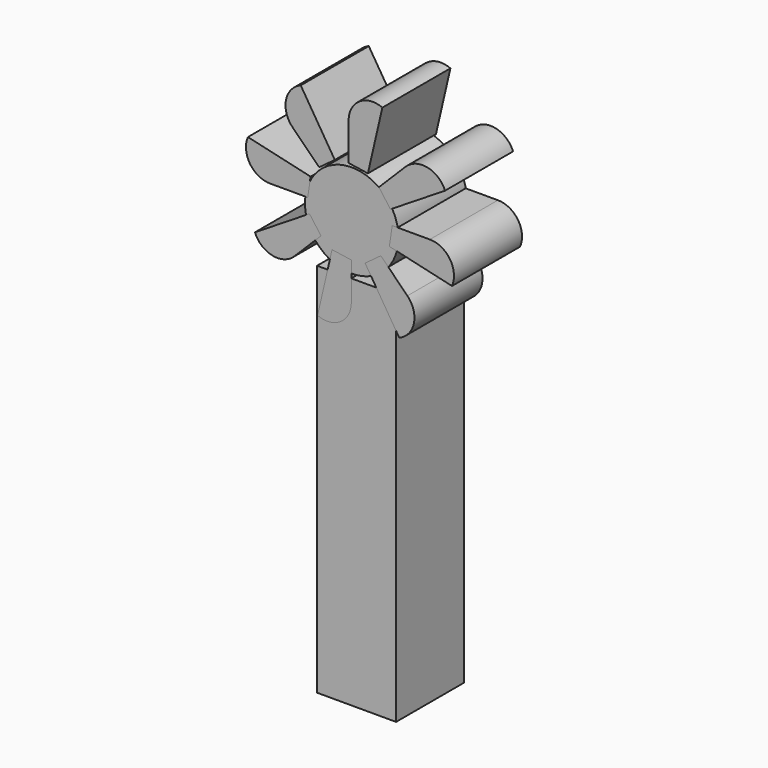
from build123d import *

# Parameters (mm, degrees)
F0_W     = 23.600073
F0_H     = 112.244244
F1_DEPTH = 25.4
F2_R     = 13.972665
F3_DEPTH = 25.4
F5_DEPTH = 25.4


with BuildPart() as f1:
    # F0 (on Front) → F1 (new body)
    with BuildSketch(Plane.XZ):
        with Locations((7.051242, -15.39761)):
            Rectangle(F0_W, F0_H)
    extrude(amount=F1_DEPTH)


with BuildPart() as f3:
    # F2 (on Front) → F3 (new body)
    with BuildSketch(Plane.XZ):
        with Locations((5.612213, 55.97822)):
            Circle(F2_R)
    extrude(amount=F3_DEPTH)


with BuildPart() as f5:
    # F4 (on Front) → F5 (new body)
    with BuildSketch(Plane.XZ):
        with BuildLine():
            Line((-3.559135, 48.957681), (-7.018793, 53.638397))
            Line((-7.018793, 53.638397), (-23.299548, 43.462929))
            ThreePointArc((-23.299548, 43.462929), (-18.056473, 39.058156), (-11.495999, 41.020817))
            Line((-11.495999, 41.020817), (-3.559135, 48.957681))
        make_face()
        with BuildLine():
            Line((-7.540056, 57.763526), (-6.676638, 63.51964))
            Line((-6.676638, 63.51964), (-25.384012, 67.83673))
            ThreePointArc((-25.384012, 67.83673), (-24.791243, 61.014671), (-18.764476, 57.763526))
            Line((-18.764476, 57.763526), (-7.540056, 57.763526))
        make_face()
        with BuildLine():
            Line((-4.128319, 66.805135), (0.552397, 70.264793))
            Line((0.552397, 70.264793), (-9.623071, 86.545548))
            ThreePointArc((-9.623071, 86.545548), (-14.027844, 81.302473), (-12.065183, 74.741999))
            Line((-12.065183, 74.741999), (-4.128319, 66.805135))
        make_face()
        with BuildLine():
            Line((4.677526, 70.786056), (10.43364, 69.922638))
            Line((10.43364, 69.922638), (14.75073, 88.630012))
            ThreePointArc((14.75073, 88.630012), (7.928671, 88.037243), (4.677526, 82.010476))
            Line((4.677526, 82.010476), (4.677526, 70.786056))
        make_face()
        with BuildLine():
            Line((13.719135, 67.374319), (17.178793, 62.693603))
            Line((17.178793, 62.693603), (33.459548, 72.869071))
            ThreePointArc((33.459548, 72.869071), (28.216473, 77.273844), (21.655999, 75.311183))
            Line((21.655999, 75.311183), (13.719135, 67.374319))
        make_face()
        with BuildLine():
            Line((17.700056, 58.568474), (16.836638, 52.81236))
            Line((16.836638, 52.81236), (35.544012, 48.49527))
            ThreePointArc((35.544012, 48.49527), (34.951243, 55.317329), (28.924476, 58.568474))
            Line((28.924476, 58.568474), (17.700056, 58.568474))
        make_face()
        with BuildLine():
            Line((14.288319, 49.526865), (9.607603, 46.067207))
            Line((9.607603, 46.067207), (19.783071, 29.786452))
            ThreePointArc((19.783071, 29.786452), (24.187844, 35.029527), (22.225183, 41.590001))
            Line((22.225183, 41.590001), (14.288319, 49.526865))
        make_face()
        with BuildLine():
            Line((5.482474, 45.545944), (-0.27364, 46.409362))
            Line((-0.27364, 46.409362), (-4.59073, 27.701988))
            ThreePointArc((-4.59073, 27.701988), (2.231329, 28.294757), (5.482474, 34.321524))
            Line((5.482474, 34.321524), (5.482474, 45.545944))
        make_face()
    extrude(amount=F5_DEPTH)


solid = Compound([f1.part, f3.part, f5.part])
